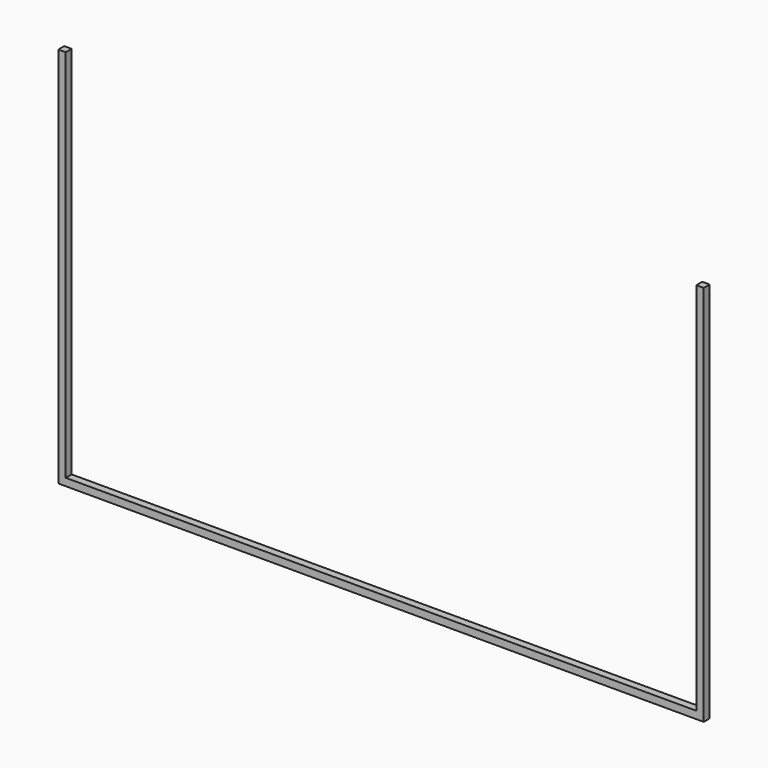
from build123d import *

# Parameters (mm, degrees)
F0_W     = 2
F0_H     = 101
F0_H_2   = 2
F0_W_2   = 170
F1_DEPTH = 1


with BuildPart() as f1:
    # F0 (on Front) → F1 (new body, symmetric)
    with BuildSketch(Plane.XZ):
        with Locations((-86, 1)):
            Rectangle(F0_W, F0_H)
        with Locations((-86, -50.5)):
            Rectangle(F0_W, F0_H_2)
        with Locations((0, -50.5)):
            Rectangle(F0_W_2, F0_H_2)
        with Locations((86, -50.5)):
            Rectangle(F0_W, F0_H_2)
        with Locations((86, 1)):
            Rectangle(F0_W, F0_H)
    extrude(amount=F1_DEPTH, both=True)


solid = f1.part
